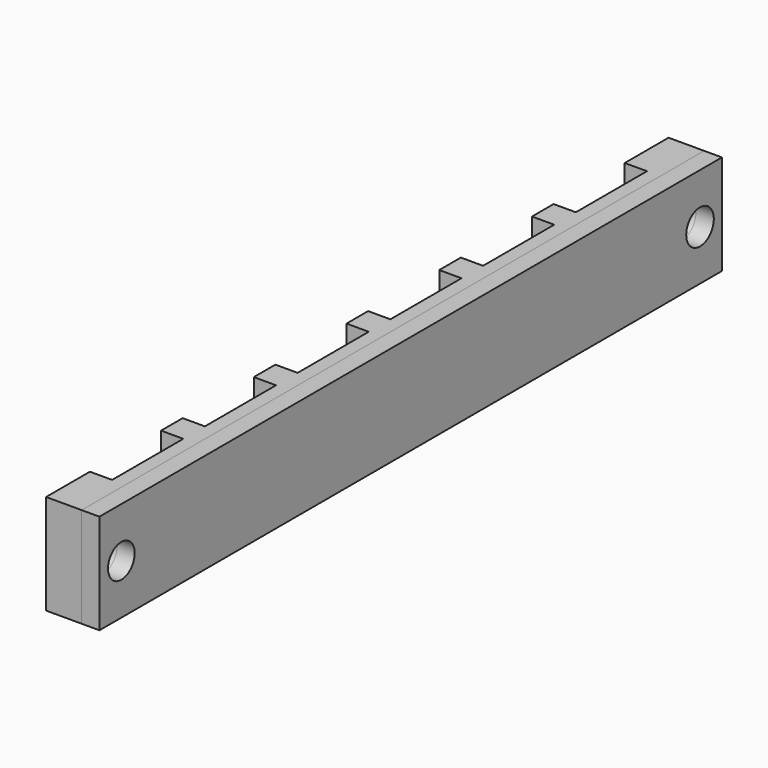
from build123d import *

# Parameters (mm, degrees)
F0_W     = 2
F0_H     = 2.5
F0_H_2   = 2.4285714286
F2_DEPTH = 9
F1_W     = 1.6
F1_H     = 70
F3_R     = 1.55
F3_R_2   = 1.5
F4_DEPTH = 4.801


with BuildPart() as f2:
    # F0 (on Top) → F2 (new body)
    with BuildSketch(Plane.XY):
        Polygon((0, 70), (-1.2, 70), (-1.2, 67.5), (-1.2, 65.0714285714), (-1.2, 57.0714285714), (-1.2, 54.6428571429), (-1.2, 46.6428571429), (-1.2, 44.2142857143), (-1.2, 36.2142857143), (-1.2, 33.7857142857), (-1.2, 25.7857142857), (-1.2, 23.3571428571), (-1.2, 15.3571428571), (-1.2, 12.9285714286), (-1.2, 4.9285714286), (-1.2, 2.5), (-1.2, 0), (0, 0), align=None)
        with Locations((-2.2, 68.75)):
            Rectangle(F0_W, F0_H)
        with Locations((-2.2, 66.2857142857)):
            Rectangle(F0_W, F0_H_2)
        with Locations((-2.2, 1.25)):
            Rectangle(F0_W, F0_H)
        with Locations((-2.2, 55.8571428571)):
            Rectangle(F0_W, F0_H_2)
        with Locations((-2.2, 3.7142857143)):
            Rectangle(F0_W, F0_H_2)
        with Locations((-2.2, 45.4285714286)):
            Rectangle(F0_W, F0_H_2)
        with Locations((-2.2, 14.1428571429)):
            Rectangle(F0_W, F0_H_2)
        with Locations((-2.2, 35)):
            Rectangle(F0_W, F0_H_2)
        with Locations((-2.2, 24.5714285714)):
            Rectangle(F0_W, F0_H_2)
    extrude(amount=F2_DEPTH)


with BuildPart() as f2b:
    # F1 (on Top) → F2, piece 2 (new body)
    with BuildSketch(Plane.XY):
        with Locations((0.8, 35)):
            Rectangle(F1_W, F1_H)
    extrude(amount=F2_DEPTH)


with BuildPart() as f4_tool:
    # F3 (on face) → F4 (new body, through all)
    with BuildSketch(Plane(origin=(-3.2, 0, 0), x_dir=(0, -1, 0), z_dir=(-1, 0, 0))):
        with Locations((-67.5357142857, 4.5)):
            Circle(F3_R)
        with Locations((-2.4642857143, 4.5)):
            Circle(F3_R_2)
    extrude(amount=-F4_DEPTH)


with BuildPart() as f2_1:
    add(f2.part)

    # F4: cut by f4_tool
    add(f4_tool.part, mode=Mode.SUBTRACT)


with BuildPart() as f2b_1:
    add(f2b.part)

    # F4: cut by f4_tool
    add(f4_tool.part, mode=Mode.SUBTRACT)


solid = Compound([f2_1.part, f2b_1.part])
